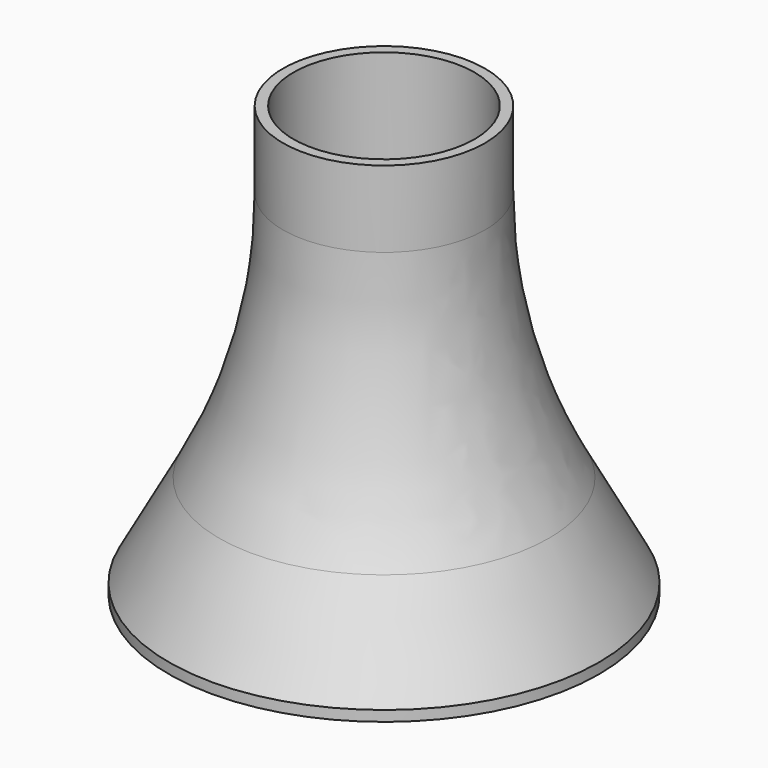
from build123d import *

# Parameters (mm, degrees)
F2_R     = 100
F3_R     = 50
F4_R     = 2.5
F5_DEPTH = 2


with BuildPart() as f1:
    # F0 (on Front) → F1 (revolve)
    with BuildSketch(Plane.XZ):
        with BuildLine():
            Line((0, 2), (0, 0))
            Line((0, 0), (41, 0))
            Line((41, 0), (41, 2))
            Line((41, 2), (19.25, 42))
            Line((19.25, 42), (19.25, 82))
            Line((19.25, 82), (17.25, 82))
            Line((17.25, 82), (17.25, 42))
            Line((17.25, 42), (37.794753, 4.216546))
            ThreePointArc((37.794753, 4.216546), (37.766311, 2.733456), (36.476966, 2))
            Line((36.476966, 2), (0, 2))
        make_face()
    revolve(axis=Axis((0, 0, 1), (0, 0, -1)))

    # F2
    f2_edges = [f1.edges().sort_by_distance(p)[0] for p in [
        (-19.25, 0, 42),
    ]]
    fillet(f2_edges, radius=F2_R)

    # F3
    f3_edges = [f1.edges().sort_by_distance(p)[0] for p in [
        (-17.25, 0, 42),
    ]]
    fillet(f3_edges, radius=F3_R)

    # F4 (on face) → F5 (cut, through all)
    with BuildSketch(Plane(origin=(0, 0, 0), x_dir=(1, 0, 0), z_dir=(0, 0, -1))):
        Circle(F4_R)
        with Locations((0, 6.5)):
            Circle(F4_R)
        with Locations((0, 13)):
            Circle(F4_R)
        with Locations((0, 19.5)):
            Circle(F4_R)
        with Locations((0, 26)):
            Circle(F4_R)
        with Locations((0, 32.5)):
            Circle(F4_R)
        with Locations((-5.629165, 3.25)):
            Circle(F4_R)
        with Locations((-11.25833, 6.5)):
            Circle(F4_R)
        with Locations((-16.887495, 9.75)):
            Circle(F4_R)
        with Locations((-22.51666, 13)):
            Circle(F4_R)
        with Locations((-28.145826, 16.25)):
            Circle(F4_R)
        with Locations((-5.629165, -3.25)):
            Circle(F4_R)
        with Locations((-11.25833, -6.5)):
            Circle(F4_R)
        with Locations((-16.887495, -9.75)):
            Circle(F4_R)
        with Locations((-22.51666, -13)):
            Circle(F4_R)
        with Locations((-28.145826, -16.25)):
            Circle(F4_R)
        with Locations((0, -6.5)):
            Circle(F4_R)
        with Locations((0, -13)):
            Circle(F4_R)
        with Locations((0, -19.5)):
            Circle(F4_R)
        with Locations((0, -26)):
            Circle(F4_R)
        with Locations((0, -32.5)):
            Circle(F4_R)
        with Locations((5.629165, -3.25)):
            Circle(F4_R)
        with Locations((11.25833, -6.5)):
            Circle(F4_R)
        with Locations((16.887495, -9.75)):
            Circle(F4_R)
        with Locations((22.51666, -13)):
            Circle(F4_R)
        with Locations((28.145826, -16.25)):
            Circle(F4_R)
        with Locations((5.629165, 3.25)):
            Circle(F4_R)
        with Locations((11.25833, 6.5)):
            Circle(F4_R)
        with Locations((16.887495, 9.75)):
            Circle(F4_R)
        with Locations((22.51666, 13)):
            Circle(F4_R)
        with Locations((28.145826, 16.25)):
            Circle(F4_R)
        with Locations((-6.5, 11.25833)):
            Circle(F4_R)
        with Locations((-9.75, 16.887495)):
            Circle(F4_R)
        with Locations((-13, 22.51666)):
            Circle(F4_R)
        with Locations((-16.25, 28.145826)):
            Circle(F4_R)
        with Locations((-13, 0)):
            Circle(F4_R)
        with Locations((-19.5, 0)):
            Circle(F4_R)
        with Locations((-26, 0)):
            Circle(F4_R)
        with Locations((-32.5, 0)):
            Circle(F4_R)
        with Locations((-6.5, -11.25833)):
            Circle(F4_R)
        with Locations((-9.75, -16.887495)):
            Circle(F4_R)
        with Locations((-13, -22.51666)):
            Circle(F4_R)
        with Locations((-16.25, -28.145826)):
            Circle(F4_R)
        with Locations((6.5, -11.25833)):
            Circle(F4_R)
        with Locations((9.75, -16.887495)):
            Circle(F4_R)
        with Locations((13, -22.51666)):
            Circle(F4_R)
        with Locations((16.25, -28.145826)):
            Circle(F4_R)
        with Locations((13, 0)):
            Circle(F4_R)
        with Locations((19.5, 0)):
            Circle(F4_R)
        with Locations((26, 0)):
            Circle(F4_R)
        with Locations((32.5, 0)):
            Circle(F4_R)
        with Locations((6.5, 11.25833)):
            Circle(F4_R)
        with Locations((9.75, 16.887495)):
            Circle(F4_R)
        with Locations((13, 22.51666)):
            Circle(F4_R)
        with Locations((16.25, 28.145826)):
            Circle(F4_R)
        with Locations((-6.729295, 25.114071)):
            Circle(F4_R)
        with Locations((-8.411619, 31.392589)):
            Circle(F4_R)
        with Locations((-18.384776, 18.384776)):
            Circle(F4_R)
        with Locations((-22.98097, 22.98097)):
            Circle(F4_R)
        with Locations((-25.114071, 6.729295)):
            Circle(F4_R)
        with Locations((-31.392589, 8.411619)):
            Circle(F4_R)
        with Locations((-25.114071, -6.729295)):
            Circle(F4_R)
        with Locations((-31.392589, -8.411619)):
            Circle(F4_R)
        with Locations((-18.384776, -18.384776)):
            Circle(F4_R)
        with Locations((-22.98097, -22.98097)):
            Circle(F4_R)
        with Locations((-6.729295, -25.114071)):
            Circle(F4_R)
        with Locations((-8.411619, -31.392589)):
            Circle(F4_R)
        with Locations((6.729295, -25.114071)):
            Circle(F4_R)
        with Locations((8.411619, -31.392589)):
            Circle(F4_R)
        with Locations((18.384776, -18.384776)):
            Circle(F4_R)
        with Locations((22.98097, -22.98097)):
            Circle(F4_R)
        with Locations((25.114071, -6.729295)):
            Circle(F4_R)
        with Locations((31.392589, -8.411619)):
            Circle(F4_R)
        with Locations((25.114071, 6.729295)):
            Circle(F4_R)
        with Locations((31.392589, 8.411619)):
            Circle(F4_R)
        with Locations((18.384776, 18.384776)):
            Circle(F4_R)
        with Locations((22.98097, 22.98097)):
            Circle(F4_R)
        with Locations((6.729295, 25.114071)):
            Circle(F4_R)
        with Locations((8.411619, 31.392589)):
            Circle(F4_R)
    extrude(amount=-F5_DEPTH, mode=Mode.SUBTRACT)


solid = f1.part
